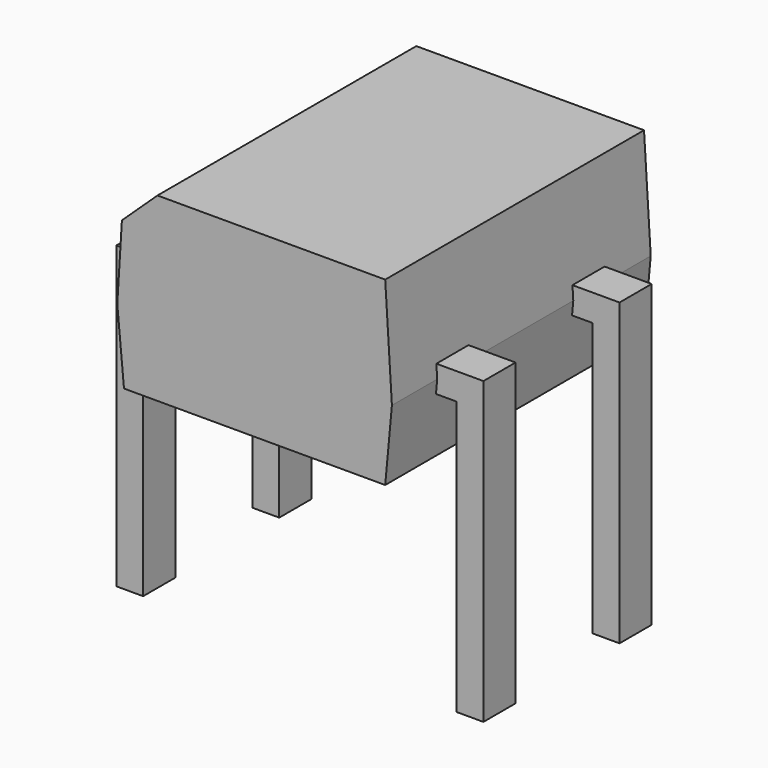
from build123d import *

# Parameters (mm, degrees)
PAD002_DEPTH = 0.3
PAD_DEPTH    = 2.415
CHAMFER_SIZE = 0.5
PAD001_DEPTH = 0.3


with BuildPart() as pad002:
    # Sketch002 → Pad002 (new body, symmetric)
    with BuildSketch(Plane.XZ.offset(2.54)):
        Polygon((-0.2, -3), (0.2, -3), (0.2, 1.08), (4.88, 1.08), (4.88, -3), (5.28, -3), (5.28, 1.48), (-0.2, 1.48), align=None)
    extrude(amount=PAD002_DEPTH, both=True)


with BuildPart() as chamfer_body:
    # Sketch → Pad (new body, symmetric)
    with BuildSketch(Plane.XZ.offset(1.27)):
        Polygon((0.59, 0.2), (4.49, 0.2), (4.59, 1.28), (4.49, 2.9), (0.59, 2.9), (0.49, 1.28), align=None)
    extrude(amount=PAD_DEPTH, both=True)

    # Chamfer
    chamfer_edges = [chamfer_body.edges().sort_by_distance(p)[0] for p in [
        (0.59, -1.27, 2.9),
    ]]
    chamfer(chamfer_edges, length=CHAMFER_SIZE)


with BuildPart() as diode_bridge_dip_4_w5_08mm_p2_54mm:
    # Sketch001 → Pad001 (new body, symmetric)
    with BuildSketch(Plane.XZ):
        Polygon((-0.2, -3), (0.2, -3), (0.2, 1.08), (4.88, 1.08), (4.88, -3), (5.28, -3), (5.28, 1.48), (-0.2, 1.48), align=None)
    extrude(amount=PAD001_DEPTH, both=True)

    add(pad002.part)
    add(chamfer_body.part)


solid = diode_bridge_dip_4_w5_08mm_p2_54mm.part
